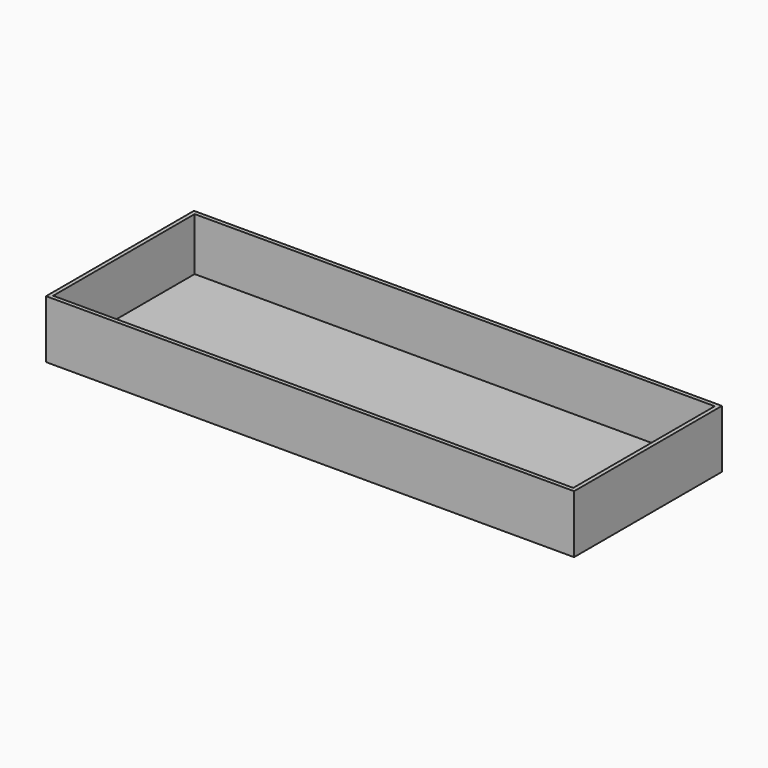
from build123d import *

# Parameters (mm, degrees)
SKETCH_W     = 200
SKETCH_H     = 70
PAD_DEPTH    = 22
SKETCH001_W  = 197.00663
SKETCH001_H  = 66.988611
POCKET_DEPTH = 20


with BuildPart() as part:
    # Sketch (on Sketch) → Pad (new body)
    with BuildSketch(Plane.XY.offset(45)):
        with Locations((100, 35)):
            Rectangle(SKETCH_W, SKETCH_H)
    extrude(amount=-PAD_DEPTH)

    # Sketch001 (on Face6 of Pad) → Pocket (cut)
    with BuildSketch(Plane.XY.offset(45)):
        with Locations((99.977825, 35.009929)):
            Rectangle(SKETCH001_W, SKETCH001_H)
    extrude(amount=-POCKET_DEPTH, mode=Mode.SUBTRACT)


solid = part.part
